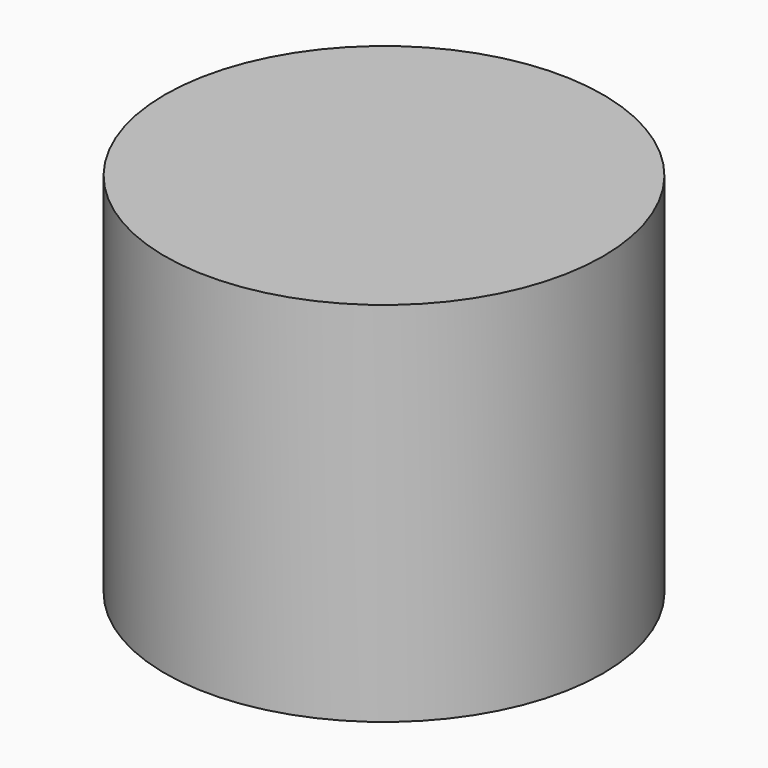
from build123d import *

# Parameters (mm, degrees)
CYLINDER001_R                    = 15.2
CYLINDER001_DEPTH                = 26.5
CYLINDER014005814004018005_R     = 17
CYLINDER014005814004018005_DEPTH = 28.5


with BuildPart() as obj1:
    # Cylinder001 → Cylinder001 (new body)
    with BuildSketch(Plane.XY):
        Circle(CYLINDER001_R)
    extrude(amount=CYLINDER001_DEPTH)


with BuildPart() as cap1:
    # Cylinder014005814004018005 → Cylinder014005814004018005 (new body)
    with BuildSketch(Plane.XY):
        Circle(CYLINDER014005814004018005_R)
    extrude(amount=CYLINDER014005814004018005_DEPTH)

    # Cut061098126005: cut obj1
    add(obj1.part, mode=Mode.SUBTRACT)


solid = cap1.part
